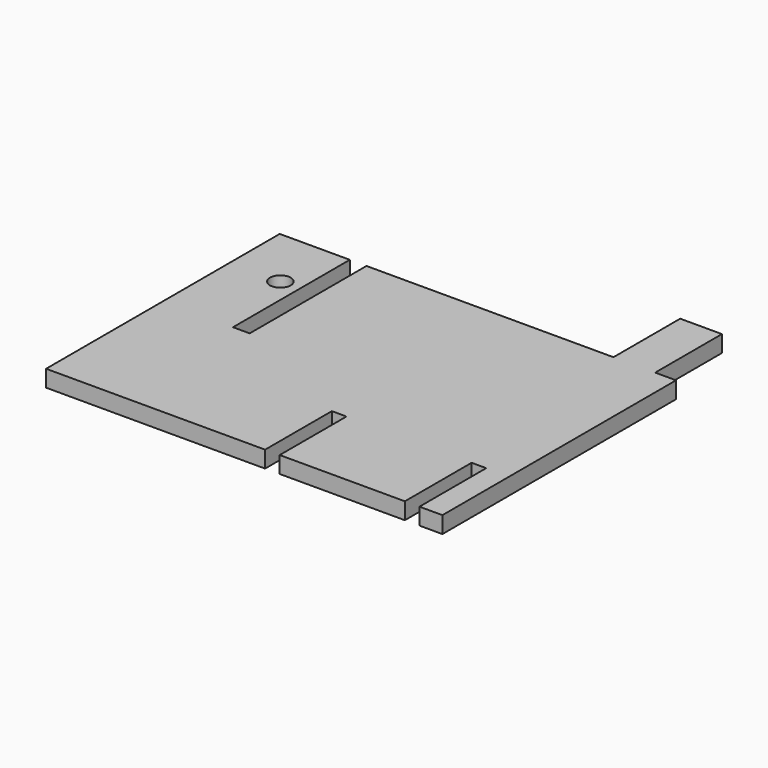
from build123d import *

# Parameters (mm, degrees)
F0_R     = 5
F0_W     = 20
F0_H     = 40
F1_DEPTH = 8


with BuildPart() as f1:
    # F0 (on Top) → F1 (new body)
    with BuildSketch(Plane.XY):
        Polygon((-108.892262, 106.488379), (-142.497932, 106.488379), (-142.497932, -33.511621), (-37.497932, -33.511621), (-37.497932, 6.488379), (-30.497932, 6.488379), (-30.497932, -33.511621), (29.502068, -33.511621), (29.502068, 6.488379), (36.502068, 6.488379), (36.502068, -33.511621), (47.502068, -33.511621), (47.502068, 106.488379), (37.502068, 106.488379), (17.502068, 106.488379), (-100.892262, 106.488379), (-100.892262, 36.488379), (-108.892262, 36.488379), align=None)
        with Locations((-118.203808, 76.488379)):
            Circle(F0_R, mode=Mode.SUBTRACT)
        with Locations((27.502068, 126.488379)):
            Rectangle(F0_W, F0_H)
    extrude(amount=F1_DEPTH)


solid = f1.part
